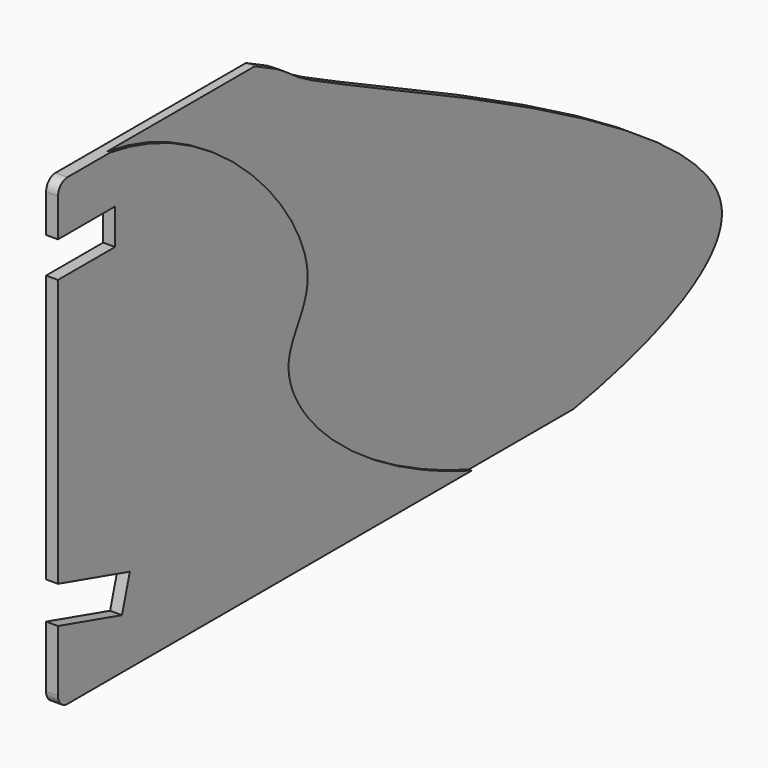
from build123d import *

# Parameters (mm, degrees)
F1_DEPTH = 1.5
F4_DEPTH = 0.5
F5_W     = 12
F5_H     = 6
F6_DEPTH = 25


with BuildPart() as f1:
    # F0 (on Right) → F1 (new body)
    with BuildSketch(Plane.YZ):
        with BuildLine():
            Line((42, 78), (2, 78))
            ThreePointArc((2, 78), (0.5857864376, 77.4142135624), (0, 76))
            Line((0, 76), (0, 69.6))
            Line((0, 69.6), (12, 69.6))
            Line((12, 69.6), (12, 63.6))
            Line((12, 63.6), (0, 63.6))
            Line((0, 63.6), (0, 18.5937966152))
            Line((0, 18.5937966152), (15.111487878, 14.2606471942))
            Line((15.111487878, 14.2606471942), (13.4576637431, 8.4930770186))
            Line((13.4576637431, 8.4930770186), (0, 12.352))
            Line((0, 12.352), (0, 2))
            ThreePointArc((0, 2), (0.5857864376, 0.5857864376), (2, 0))
            Line((2, 0), (109, 0))
            add(Edge.make_bspline(
                [(42, 78), (49.7588251107, 74.4711096647), (42.8270565854, 74.0872679271), (176.3258193003, 17.6443266752), (122.5913906271, 2.3415980892), (109, 0)],
                knots=[0, 0, 0, 0, 0.1806872551, 0.6953480319, 1, 1, 1, 1], degree=3))
        make_face()
    extrude(amount=F1_DEPTH)

    # F3 (on face) → F4 (join)
    with BuildSketch(Plane.YZ.offset(1.5)):
        with BuildLine():
            add(Edge.make_bspline(
                [(11, 78), (33.8045589941, 74.6475609926), (60.8453739258, 43.3923563223), (40.9565199131, 30.4234463117), (61.9851178247, 9.0627176212), (87, 0)],
                knots=[0, 0, 0, 0, 0.4113848141, 0.6062089181, 1, 1, 1, 1], degree=3))
            Line((11, 78), (2, 78))
            ThreePointArc((2, 78), (0.5857864376, 77.4142135624), (0, 76))
            Line((0, 76), (0, 2))
            ThreePointArc((0, 2), (0.5857864376, 0.5857864376), (2, 0))
            Line((2, 0), (87, 0))
        make_face()
    extrude(amount=F4_DEPTH)

    # F5 (on face) → F6 (cut)
    with BuildSketch(Plane(origin=(0, 0, 0), x_dir=(0, -1, 0), z_dir=(-1, 0, 0))):
        with Locations((-6, 66.6)):
            Rectangle(F5_W, F5_H)
        Polygon((0, 12.352), (0, 18.5937966152), (-15.111487878, 14.2606471942), (-13.4576637431, 8.4930770186), align=None)
    extrude(amount=-F6_DEPTH, mode=Mode.SUBTRACT)


solid = f1.part
